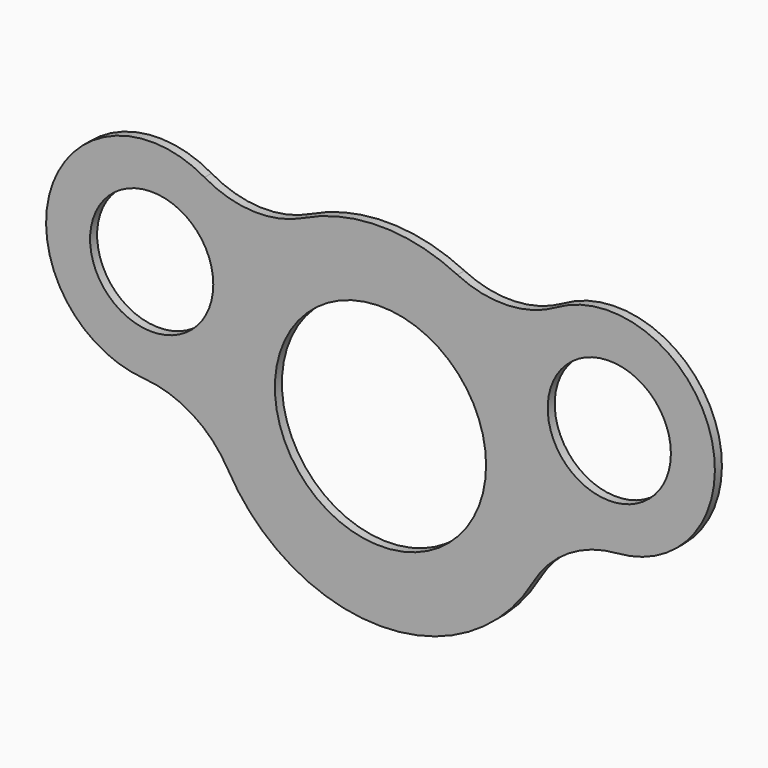
from build123d import *

# Parameters (mm, degrees)
F0_R     = 7
F0_R_2   = 12
F1_DEPTH = 1


with BuildPart() as f1:
    # F0 (on Front) → F1 (new body)
    with BuildSketch(Plane.XZ):
        with BuildLine():
            ThreePointArc((-26.874791, -3.968072), (-21.362826, -5.776944), (-17.343489, -9.96009))
            ThreePointArc((-17.343489, -9.96009), (0, -20), (17.343489, -9.96009))
            ThreePointArc((17.343489, -9.96009), (21.362826, -5.776944), (26.874791, -3.968072))
            ThreePointArc((26.874791, -3.968072), (37.469348, 11.52903), (19.995479, 18.389693))
            ThreePointArc((19.995479, 18.389693), (14.420055, 16.787061), (8.744349, 17.987117))
            ThreePointArc((8.744349, 17.987117), (0, 20), (-8.744349, 17.987117))
            ThreePointArc((-8.744349, 17.987117), (-14.420055, 16.787061), (-19.995479, 18.389693))
            ThreePointArc((-19.995479, 18.389693), (-37.469348, 11.52903), (-26.874791, -3.968072))
        make_face()
        with Locations((-26, 8)):
            Circle(F0_R, mode=Mode.SUBTRACT)
        Circle(F0_R_2, mode=Mode.SUBTRACT)
        with Locations((26, 8)):
            Circle(F0_R, mode=Mode.SUBTRACT)
    extrude(amount=-F1_DEPTH)


solid = f1.part
